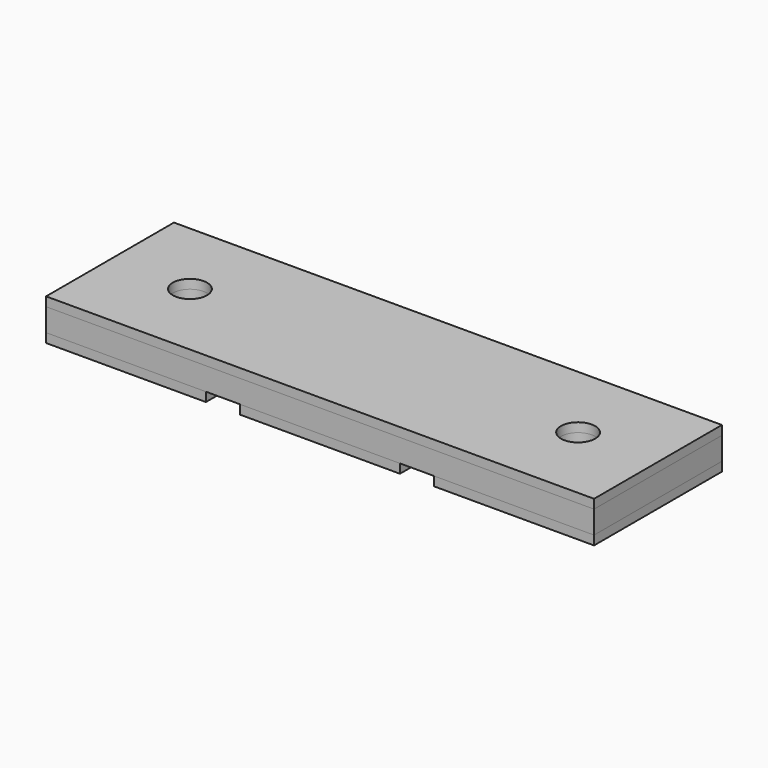
from build123d import *

# Parameters (mm, degrees)
F0_W     = 3.048
F0_H     = 0.889
F1_DEPTH = 0.127
F2_W     = 3.048
F2_H     = 0.889
F3_DEPTH = 0.0508
F4_W     = 0.889
F4_H     = 0.889
F4_R     = 0.09525
F5_DEPTH = 0.0508
F6_R     = 0.09525
F7_DEPTH = 0.1788


with BuildPart() as f1:
    # F0 (on Top) → F1 (new body)
    with BuildSketch(Plane.XY):
        Rectangle(F0_W, F0_H)
    extrude(amount=F1_DEPTH)


with BuildPart() as f3:
    # F2 (on face) → F3 (new body)
    with BuildSketch(Plane.XY.offset(0.127)):
        Rectangle(F2_W, F2_H)
    extrude(amount=F3_DEPTH)


with BuildPart() as f5:
    # F4 (on face) → F5 (new body)
    with BuildSketch(Plane(origin=(0, 0, 0), x_dir=(1, 0, 0), z_dir=(0, 0, -1))):
        with Locations((-1.0795, 0)):
            Rectangle(F4_W, F4_H)
        with Locations((-1.0795, 0)):
            Circle(F4_R, mode=Mode.SUBTRACT)
        Rectangle(F4_W, F4_H)
        with Locations((1.0795, 0)):
            Rectangle(F4_W, F4_H)
        with Locations((1.0795, 0)):
            Circle(F4_R, mode=Mode.SUBTRACT)
    extrude(amount=F5_DEPTH)


with BuildPart() as f7_tool:
    # F6 (on face) → F7 (new body, through all)
    with BuildSketch(Plane(origin=(0, 0, 0), x_dir=(1, 0, 0), z_dir=(0, 0, -1))):
        with Locations((-1.0795, 0)):
            Circle(F6_R)
        with Locations((1.0795, 0)):
            Circle(F6_R)
    extrude(amount=-F7_DEPTH)


with BuildPart() as f1_1:
    add(f1.part)

    # F7: cut by f7_tool
    add(f7_tool.part, mode=Mode.SUBTRACT)


with BuildPart() as f3_1:
    add(f3.part)

    # F7: cut by f7_tool
    add(f7_tool.part, mode=Mode.SUBTRACT)


solid = Compound([f5.part, f1_1.part, f3_1.part])
